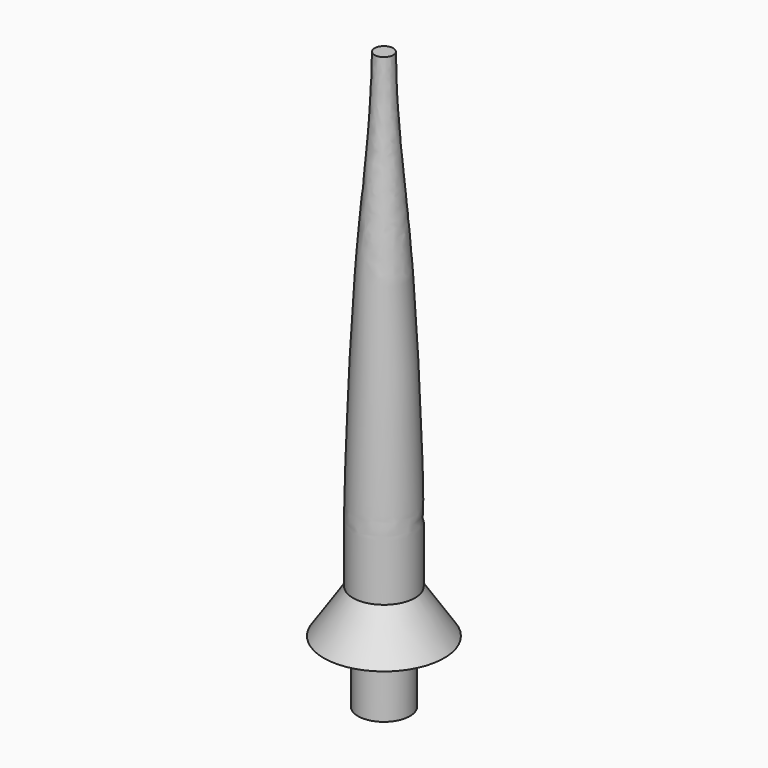
from build123d import *


with BuildPart() as f1:
    # F0 (on Front) → F1 (revolve)
    with BuildSketch(Plane.XZ):
        with BuildLine():
            Line((-5.8939033188, -62.8068074584), (-5.8939033188, -76.9521743059))
            Line((-5.8939033188, -76.9521743059), (0, -76.9521743059))
            Line((0, -76.9521743059), (0, 54.1282221675))
            Line((0, 54.1282221675), (-2.1218045149, 54.1282221675))
            add(Edge.make_bspline(
                [(-7.0726834238, -52.905049175), (-7.0651048994, -50.3340882115), (-7.0495896146, -45.0706371973), (-7.2283829494, -37.0734623527), (-5.6695624565, 10.8092441943), (-2.621171063, 36.9152537136), (-2.2715140908, 48.9677919833), (-2.1218045149, 54.1282221675)],
                knots=[0, 0, 0, 0, 0.1242375723, 0.2543478432, 0.5700377664, 0.8159068207, 1, 1, 1, 1], degree=3))
            Line((-7.0726834238, -52.905049175), (-13.6738549918, -62.8068074584))
            Line((-13.6738549918, -62.8068074584), (-5.8939033188, -62.8068074584))
        make_face()
    revolve(axis=Axis((0, 0, -11.4119760692), (0, 0, -1)))


solid = f1.part
